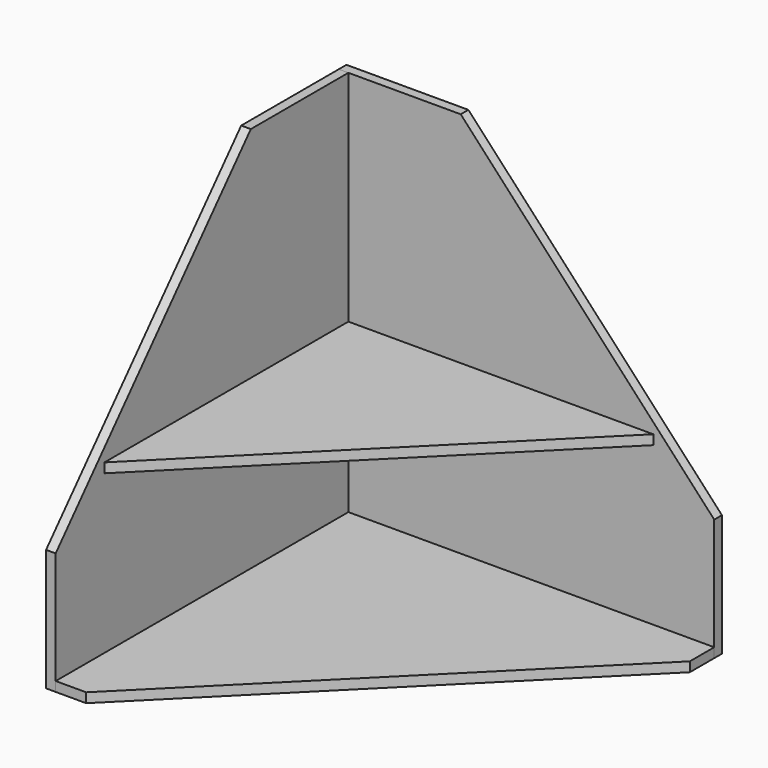
from build123d import *

# Parameters (mm, degrees)
F2_DEPTH = 3.15
F4_DEPTH = 3.15
F6_DEPTH = 3.15
F9_DEPTH = 3.15


with BuildPart() as f2:
    # F1 (on Top) → F2 (new body)
    with BuildSketch(Plane.XY):
        Polygon((0, 120), (0, 0), (10, 0), (120, 110), (120, 120), align=None)
    extrude(amount=F2_DEPTH)


with BuildPart() as f4:
    # F3 (on face) → F4 (new body)
    with BuildSketch(Plane(origin=(0, 0, 0), x_dir=(0, -1, 0), z_dir=(-1, 0, 0))):
        Polygon((0, 40), (-80, 130), (-120, 130), (-120, 0), (0, 0), align=None)
    extrude(amount=F4_DEPTH)


with BuildPart() as f6:
    # F5 (on face) → F6 (new body)
    with BuildSketch(Plane(origin=(0, 120, 0), x_dir=(-1, 0, 0), z_dir=(0, 1, 0))):
        Polygon((-120, 40), (-120, 0), (3.15, 0), (3.15, 130), (-36.85, 130), align=None)
    extrude(amount=F6_DEPTH)


with BuildPart() as f9:
    # F8 (on offset) → F9 (new body)
    with BuildSketch(Plane.XY.offset(58.15)):
        Polygon((0, 120), (0, 20), (100, 120), align=None)
    extrude(amount=-F9_DEPTH)


solid = Compound([f2.part, f4.part, f6.part, f9.part])
